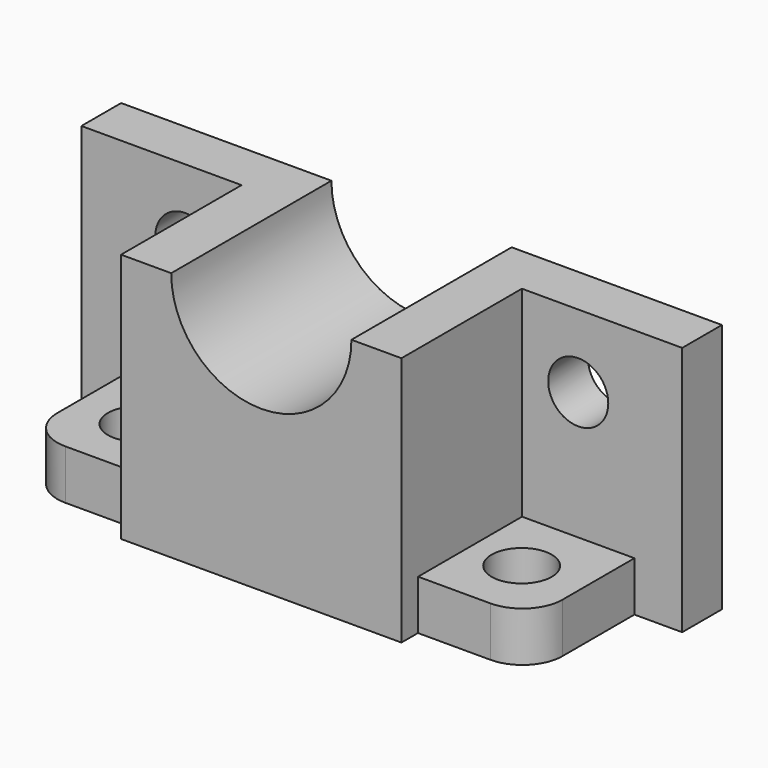
from build123d import *

# Parameters (mm, degrees)
F1_DEPTH = 15.748
F4_DEPTH = 47.752
F6_R     = 9.525
F7_DEPTH = 15.748
F8_R     = 9.525
F9_DEPTH = 25.4


with BuildPart() as f1:
    # F0 (on Front) → F1 (new body)
    with BuildSketch(Plane.XZ):
        with BuildLine():
            ThreePointArc((28.575, 0), (0, -28.575), (-28.575, 0))
            Line((-28.575, 0), (-95.25, 0))
            Line((-95.25, 0), (-95.25, -79.375))
            Line((-95.25, -79.375), (95.25, -79.375))
            Line((95.25, -79.375), (95.25, 0))
            Line((95.25, 0), (28.575, 0))
        make_face()
    extrude(amount=F1_DEPTH)

    # F2 (on face) → F4 (join)
    with BuildSketch(Plane.XZ.offset(15.748)):
        with BuildLine():
            Line((-28.575, 0), (-44.470076, 0))
            Line((-44.470076, 0), (-44.470076, -79.375))
            Line((-44.470076, -79.375), (44.429924, -79.375))
            Line((44.429924, -79.375), (44.429924, 0))
            Line((44.429924, 0), (28.575, 0))
            ThreePointArc((28.575, 0), (0, -28.575), (-28.575, 0))
        make_face()
    extrude(amount=F4_DEPTH)

    # F6 (on offset) → F7 (join)
    with BuildSketch(Plane.XY.offset(-79.375)):
        with BuildLine():
            Line((-44.470076, -15.748), (-80.10444, -15.748))
            Line((-80.10444, -15.748), (-80.10444, -44.251695))
            ThreePointArc((-80.10444, -44.251695), (-76.384697, -53.231951), (-67.40444, -56.951695))
            Line((-67.40444, -56.951695), (-44.470076, -56.951695))
            Line((-44.470076, -56.951695), (-44.470076, -15.748))
        make_face()
        with Locations((-60.833134, -36.349847)):
            Circle(F6_R, mode=Mode.SUBTRACT)
        with BuildLine():
            ThreePointArc((67.40444, -56.951695), (76.384697, -53.231951), (80.10444, -44.251695))
            Line((80.10444, -44.251695), (80.10444, -15.748))
            Line((80.10444, -15.748), (44.470076, -15.748))
            Line((44.470076, -15.748), (44.470076, -56.951695))
            Line((44.470076, -56.951695), (67.40444, -56.951695))
        make_face()
        with Locations((60.833134, -36.349847)):
            Circle(F6_R, mode=Mode.SUBTRACT)
    extrude(amount=F7_DEPTH)

    # F8 (on face) → F9 (cut)
    with BuildSketch(Plane.XZ.offset(15.748)):
        with Locations((62.287258, -23.100371)):
            Circle(F8_R)
        with Locations((-62.287258, -23.100371)):
            Circle(F8_R)
    extrude(amount=-F9_DEPTH, mode=Mode.SUBTRACT)


solid = f1.part
